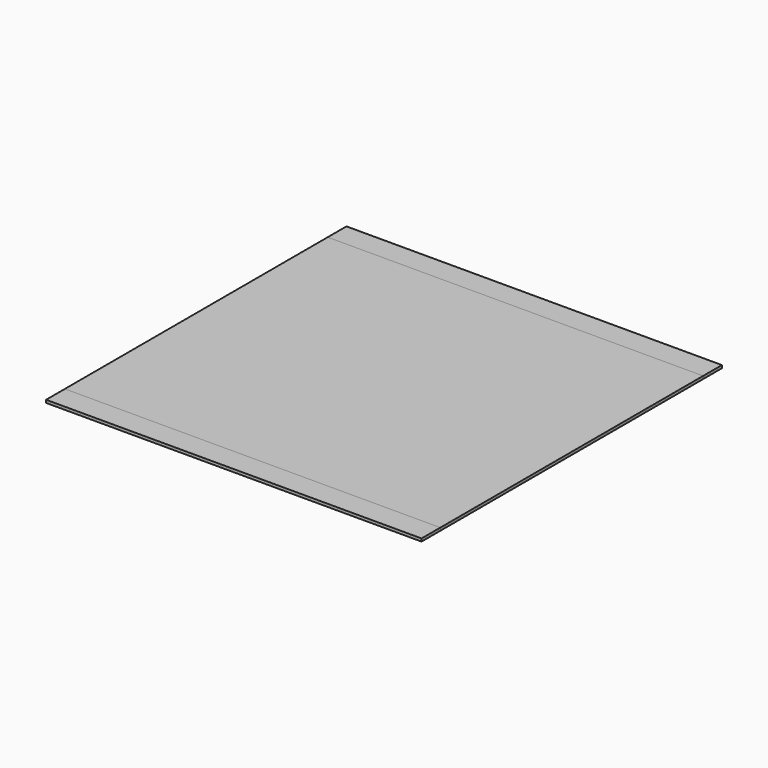
from build123d import *

# Parameters (mm, degrees)
F0_W     = 400
F0_H     = 350
F0_H_2   = 25
F1_DEPTH = 3
F2_DEPTH = 3


with BuildPart() as f1:
    # F0 (on Top) → F1 (new body)
    with BuildSketch(Plane.XY):
        Rectangle(F0_W, F0_H)
        with Locations((0, 187.5)):
            Rectangle(F0_W, F0_H_2)
        with Locations((0, -187.5)):
            Rectangle(F0_W, F0_H_2)
    extrude(amount=F1_DEPTH)


with BuildPart() as f2:
    # F0 (on Top) → F2 (new body)
    with BuildSketch(Plane.XY):
        Rectangle(F0_W, F0_H)
    extrude(amount=F2_DEPTH)


solid = Compound([f1.part, f2.part])
